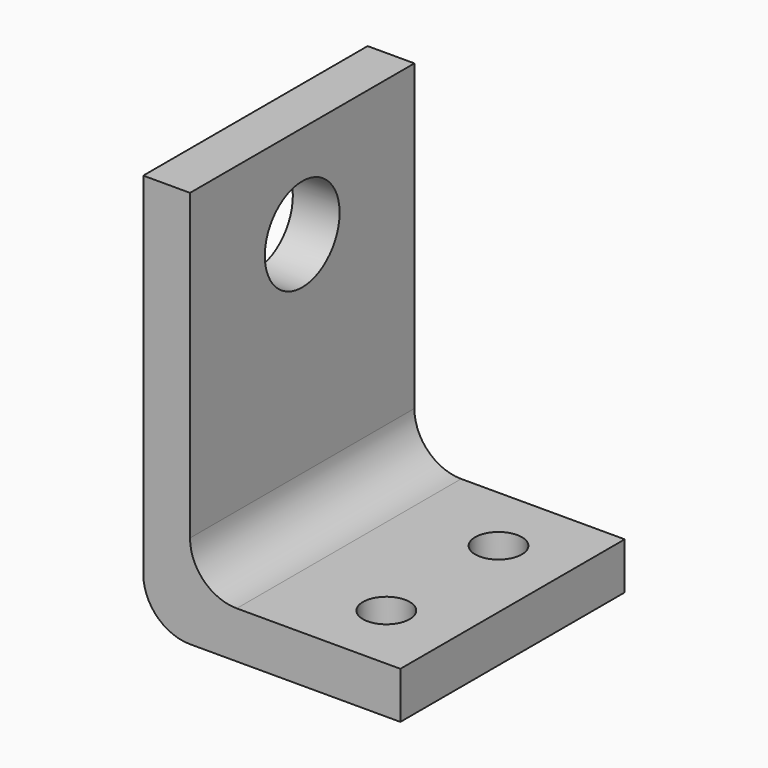
from build123d import *

# Parameters (mm, degrees)
F0_W     = 60
F0_H     = 10
F3_R     = 10
F4_R     = 10
F5_DEPTH = 10.001
F6_R     = 5
F7_DEPTH = 25
F8_R     = 5
F9_DEPTH = 25


with BuildPart() as f2:
    # F2: sweep along a path in F1
    with BuildLine(Plane.XZ) as f2_path:
        Line((0, 0), (-50, 0))
        Line((-50, 0), (-50, 80))
    # F0 (on Right) → F2 (sweep)
    with BuildSketch(Plane.YZ):
        Rectangle(F0_W, F0_H)
    sweep(path=f2_path.line, transition=Transition.RIGHT)

    # F3
    f3_edges = [f2.edges().sort_by_distance(p)[0] for p in [
        (-45, 0, 5),
        (-55, 0, -5),
    ]]
    fillet(f3_edges, radius=F3_R)

    # F4 (on face) → F5 (cut, through all)
    with BuildSketch(Plane.YZ.offset(-45)):
        with Locations((0, 60)):
            Circle(F4_R)
    extrude(amount=-F5_DEPTH, mode=Mode.SUBTRACT)

    # F6 (on face) → F7 (cut)
    with BuildSketch(Plane.XY.offset(5)):
        with Locations((-15, 15)):
            Circle(F6_R)
    extrude(amount=-F7_DEPTH, mode=Mode.SUBTRACT)

    # F8 (on face) → F9 (cut)
    with BuildSketch(Plane.XY.offset(5)):
        with Locations((-15, -15)):
            Circle(F8_R)
    extrude(amount=-F9_DEPTH, mode=Mode.SUBTRACT)


solid = f2.part
